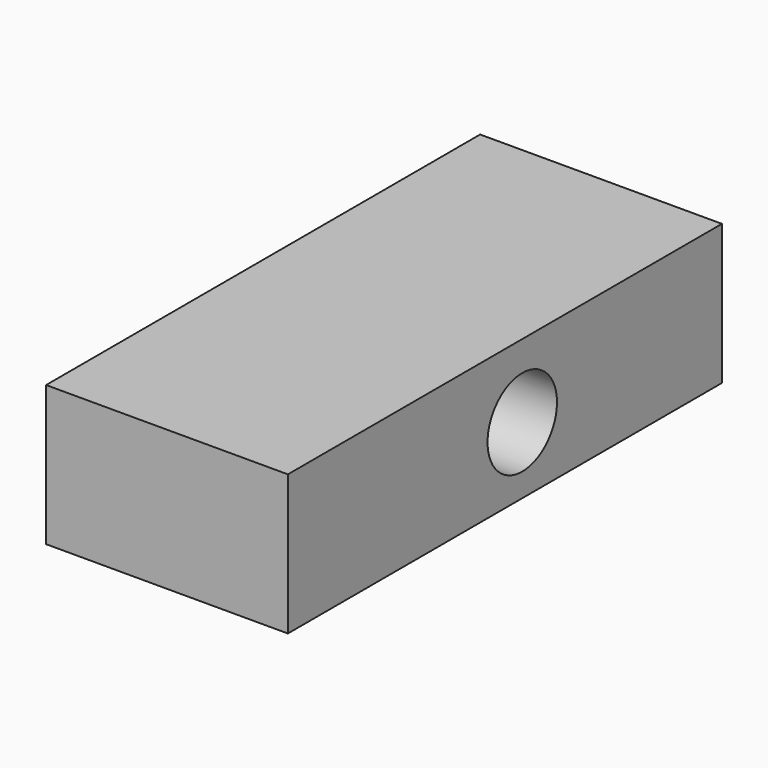
from build123d import *

# Parameters (mm, degrees)
F1_DEPTH = 50
F2_R     = 4
F3_DEPTH = 10


with BuildPart() as f1:
    # F0 (on Front) → F1 (new body)
    with BuildSketch(Plane.XZ):
        Polygon((11.096148, 22.337567), (-11.187021, 22.337567), (-11.187021, 9.424148), (0.017039, 9.424148), (11.096148, 9.424148), align=None)
    extrude(amount=F1_DEPTH)

    # F2 (on face) → F3 (cut)
    with BuildSketch(Plane.YZ.offset(11.096148)):
        with Locations((-23, 15.585567)):
            Circle(F2_R)
    extrude(amount=-F3_DEPTH, mode=Mode.SUBTRACT)


solid = f1.part
